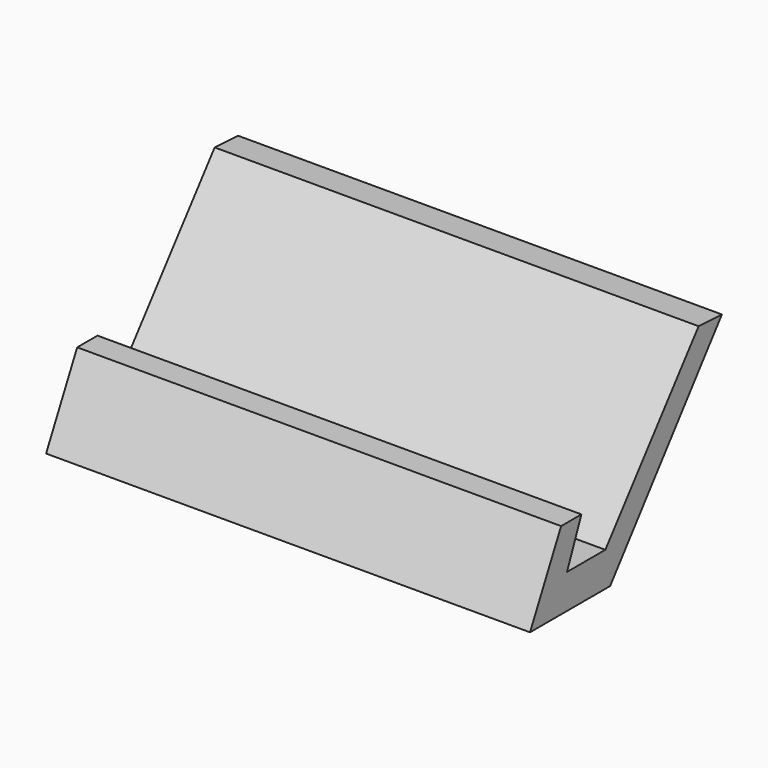
from build123d import *

# Parameters (mm, degrees)
F1_DEPTH      = 76.2
F1_DEPTH_BACK = 76.2
F3_DEPTH      = 6.35
F3_DEPTH_BACK = 6.35


with BuildPart() as f1:
    # F0 (on Right) → F1 (new body, two sides)
    with BuildSketch(Plane.YZ) as f1_sk:
        Polygon((-10.471897, -31.062707), (33.533607, 26.356237), (24.355987, 26.826883), (-12.354486, -20.237826), (-27.415192, -20.237826), (-21.767426, -6.589059), (-29.768426, -6.589059), (-42.005252, -31.062707), align=None)
    extrude(amount=F1_DEPTH)
    extrude(f1_sk.sketch, amount=-F1_DEPTH_BACK)

    # F2 (on Right) → F3 (join, two sides)
    with BuildSketch(Plane.YZ) as f3_sk:
        Polygon((38.475402, -35.063207), (22.944046, 16.943295), (15.649015, 8.001001), (28.59181, -35.063207), align=None)
    extrude(amount=F3_DEPTH)
    extrude(f3_sk.sketch, amount=-F3_DEPTH_BACK)


solid = f1.part
